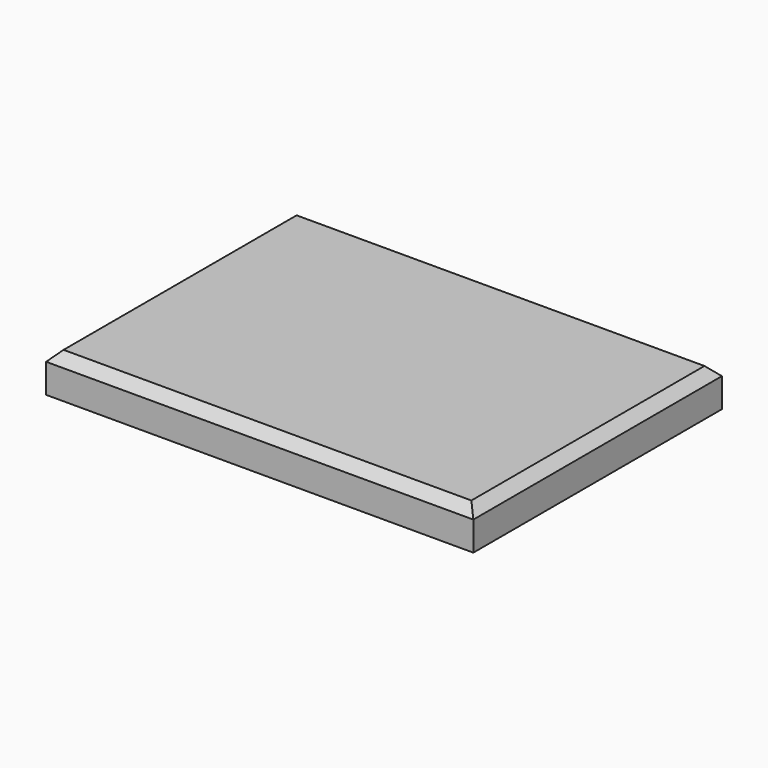
from build123d import *

# Parameters (mm, degrees)
F0_W     = 558.8
F0_H     = 406.4
F1_DEPTH = 50.8
F3_DEPTH = 25.4
F4_SIZE  = 12.7


with BuildPart() as f1:
    # F0 (on Top) → F1 (new body)
    with BuildSketch(Plane.XY):
        Rectangle(F0_W, F0_H)
        Polygon((-171.905909, -139.7), (-193.902955, -177.8), (-237.897045, -177.8), (-259.894091, -139.7), (-237.897045, -101.6), (-193.902955, -101.6), align=None, mode=Mode.SUBTRACT)
        Polygon((259.894091, -139.7), (237.897045, -177.8), (193.902955, -177.8), (171.905909, -139.7), (193.902955, -101.6), (237.897045, -101.6), align=None, mode=Mode.SUBTRACT)
        Polygon((-171.905909, 139.7), (-193.902955, 101.6), (-237.897045, 101.6), (-259.894091, 139.7), (-237.897045, 177.8), (-193.902955, 177.8), align=None, mode=Mode.SUBTRACT)
        Polygon((259.894091, 139.7), (237.897045, 101.6), (193.902955, 101.6), (171.905909, 139.7), (193.902955, 177.8), (237.897045, 177.8), align=None, mode=Mode.SUBTRACT)
    extrude(amount=F1_DEPTH)

    # F2 (on face) → F3 (join)
    with BuildSketch(Plane.XY.offset(50.8)):
        Polygon((-237.897045, 101.6), (-193.902955, 101.6), (-171.905909, 139.7), (-193.902955, 177.8), (-237.897045, 177.8), (-259.894091, 139.7), align=None)
        Polygon((193.902955, 101.6), (237.897045, 101.6), (259.894091, 139.7), (237.897045, 177.8), (193.902955, 177.8), (171.905909, 139.7), align=None)
        Polygon((-237.897045, -177.8), (-193.902955, -177.8), (-171.905909, -139.7), (-193.902955, -101.6), (-237.897045, -101.6), (-259.894091, -139.7), align=None)
        Polygon((193.902955, -177.8), (237.897045, -177.8), (259.894091, -139.7), (237.897045, -101.6), (193.902955, -101.6), (171.905909, -139.7), align=None)
    extrude(amount=-F3_DEPTH)

    # F4
    f4_edges = [f1.edges().sort_by_distance(p)[0] for p in [
        (279.4, 0, 50.8),
        (0, -203.2, 50.8),
        (0, 203.2, 50.8),
        (-279.4, 0, 50.8),
    ]]
    chamfer(f4_edges, length=F4_SIZE)


solid = f1.part
